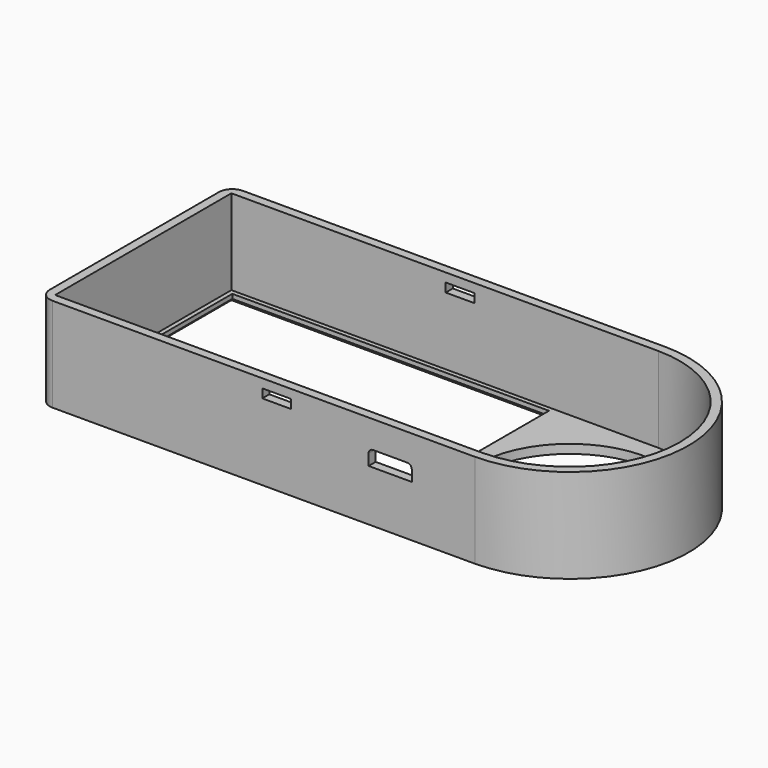
from build123d import *

# Parameters (mm, degrees)
BOX011_W          = 7.8
BOX011_H          = 10
BOX011_DEPTH      = 2.8
FILLET003_R       = 0.8
BOX010_W          = 5.2
BOX010_H          = 50
BOX010_DEPTH      = 1.6
BOX008_W          = 57.2
BOX008_H          = 38.2
BOX008_DEPTH      = 1.6
CYLINDER012_R     = 16.7
CYLINDER012_DEPTH = 1.6
CYLINDER011_R     = 19.9
CYLINDER011_DEPTH = 17
BOX007_W          = 77.1
BOX007_H          = 39.8
BOX007_DEPTH      = 17
CYLINDER010_R     = 21.5
CYLINDER010_DEPTH = 17
BOX006_W          = 78.7
BOX006_H          = 43
BOX006_DEPTH      = 17
FILLET002_R       = 2.4
CHAMFER005_SIZE   = 0.8


with BuildPart() as usb:
    # Box011 → Box011 (new body)
    with BuildSketch(Plane(origin=(57.1, 45, 9.3), x_dir=(1, 0, 0), z_dir=(0, 0, 1))):
        with Locations((3.9, 5)):
            Rectangle(BOX011_W, BOX011_H)
    extrude(amount=BOX011_DEPTH)

    # Fillet003
    fillet003_edges = [usb.edges().sort_by_distance(p)[0] for p in [
        (57.1, 50, 12.1),
        (64.9, 50, 12.1),
    ]]
    fillet(fillet003_edges, radius=FILLET003_R)


with BuildPart() as obj1:
    # Box010 → Box010 (new body)
    with BuildSketch(Plane(origin=(37.9, 45, 13.8), x_dir=(1, 0, 0), z_dir=(0, 0, 1))):
        with Locations((2.6, 25)):
            Rectangle(BOX010_W, BOX010_H)
    extrude(amount=BOX010_DEPTH)


with BuildPart() as obj2:
    # Box008 → Box008 (new body)
    with BuildSketch(Plane(origin=(0, 50, 0), x_dir=(1, 0, 0), z_dir=(0, 0, 1))):
        with Locations((28.6, 19.1)):
            Rectangle(BOX008_W, BOX008_H)
    extrude(amount=BOX008_DEPTH)


with BuildPart() as zylinder012:
    # Cylinder012 → Cylinder012 (new body)
    with BuildSketch(Plane(origin=(76.2, 69.1, 0), x_dir=(1, 0, 0), z_dir=(0, 0, 1))):
        Circle(CYLINDER012_R)
    extrude(amount=CYLINDER012_DEPTH)


with BuildPart() as zylinder011:
    # Cylinder011 → Cylinder011 (new body)
    with BuildSketch(Plane(origin=(76.2, 69.1, 1.6), x_dir=(1, 0, 0), z_dir=(0, 0, 1))):
        Circle(CYLINDER011_R)
    extrude(amount=CYLINDER011_DEPTH)


with BuildPart() as fusion009:
    # Box007 → Box007 (new body)
    with BuildSketch(Plane(origin=(-0.8, 49.2, 1.6), x_dir=(1, 0, 0), z_dir=(0, 0, 1))):
        with Locations((38.55, 19.9)):
            Rectangle(BOX007_W, BOX007_H)
    extrude(amount=BOX007_DEPTH)

    # Fusion009: union Zylinder011
    add(zylinder011.part)


with BuildPart() as zylinder010:
    # Cylinder010 → Cylinder010 (new body)
    with BuildSketch(Plane(origin=(76.2, 69.1, 0), x_dir=(1, 0, 0), z_dir=(0, 0, 1))):
        Circle(CYLINDER010_R)
    extrude(amount=CYLINDER010_DEPTH)


with BuildPart() as top:
    # Box006 → Box006 (new body)
    with BuildSketch(Plane(origin=(-2.4, 47.6, 0), x_dir=(1, 0, 0), z_dir=(0, 0, 1))):
        with Locations((39.35, 21.5)):
            Rectangle(BOX006_W, BOX006_H)
    extrude(amount=BOX006_DEPTH)

    # Fusion008: union Zylinder010
    add(zylinder010.part)

    # Cut004: cut Fusion009
    add(fusion009.part, mode=Mode.SUBTRACT)

    # Fillet002
    fillet002_edges = [top.edges().sort_by_distance(p)[0] for p in [
        (-2.4, 47.6, 8.5),
        (-2.4, 90.6, 8.5),
    ]]
    fillet(fillet002_edges, radius=FILLET002_R)

    # Cut005: cut Zylinder012
    add(zylinder012.part, mode=Mode.SUBTRACT)

    # Cut006: cut obj2
    add(obj2.part, mode=Mode.SUBTRACT)

    # Chamfer005
    chamfer005_edges = [top.edges().sort_by_distance(p)[0] for p in [
        (57.2, 83.681153, 0),
        (28.6, 88.2, 0),
        (0, 69.1, 0),
        (28.6, 50, 0),
        (57.2, 54.518847, 0),
        (57.2, 69.1, 0),
    ]]
    chamfer(chamfer005_edges, length=CHAMFER005_SIZE)

    # Cut011: cut obj1
    add(obj1.part, mode=Mode.SUBTRACT)

    # Cut012: cut USB
    add(usb.part, mode=Mode.SUBTRACT)


solid = top.part
